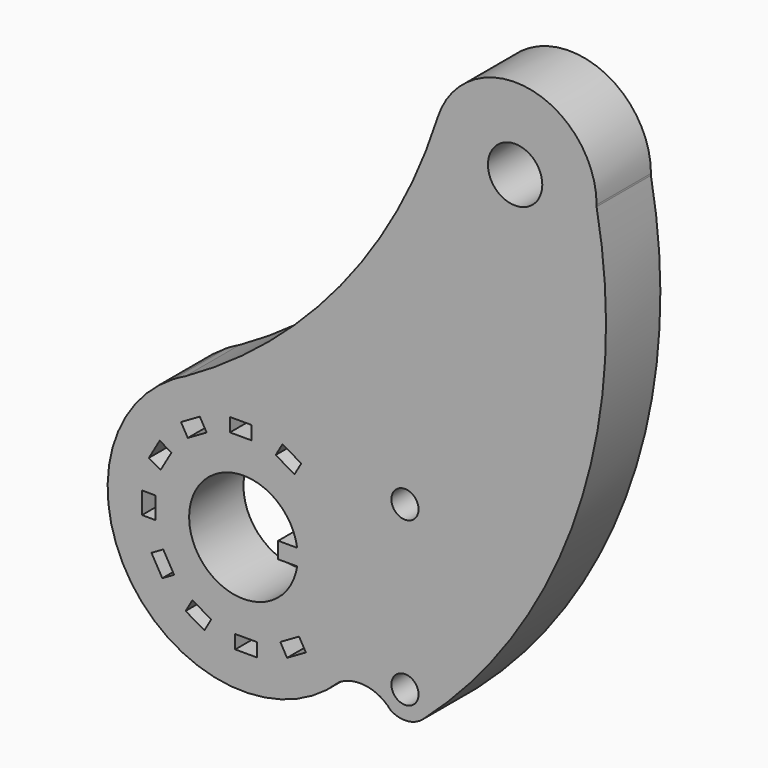
from build123d import *

# Parameters (mm, degrees)
F0_R     = 10
F0_W     = 5
F0_H     = 8
F0_W_2   = 8
F0_H_2   = 5
F0_R_2   = 5
F1_DEPTH = 25


with BuildPart() as f1:
    # F0 (on Front) → F1 (new body)
    with BuildSketch(Plane.XZ):
        with BuildLine():
            ThreePointArc((60.975433, 96.400047), (60.980972, 96.732847), (60.982819, 97.065687))
            ThreePointArc((60.982819, 97.065687), (35.755982, 126.683535), (2.501691, 106.49041))
            ThreePointArc((2.501691, 106.49041), (2.393928, 106.15023), (2.285558, 105.810243))
            ThreePointArc((2.285558, 105.810243), (4.350114, 83.256305), (21.59361, 68.572833))
            ThreePointArc((21.59361, 68.572833), (48.295056, 72.564944), (60.975433, 96.400047))
        make_face()
        with Locations((30.982819, 97.065687)):
            Circle(F0_R, mode=Mode.SUBTRACT)
        with BuildLine():
            ThreePointArc((2.285558, 105.810243), (2.393928, 106.15023), (2.501691, 106.49041))
            ThreePointArc((2.501691, 106.49041), (2.391602, 106.150969), (2.285558, 105.810243))
        make_face()
        with BuildLine():
            ThreePointArc((-2.732649, -90.243404), (53.726427, -5.320256), (60.975433, 96.400047))
            ThreePointArc((60.975433, 96.400047), (48.295056, 72.564944), (21.59361, 68.572833))
            ThreePointArc((21.59361, 68.572833), (4.350114, 83.256305), (2.285558, 105.810243))
            ThreePointArc((2.285558, 105.810243), (-33.312028, 40.206629), (-90.483698, -7.776936))
            ThreePointArc((-90.483698, -7.776936), (-60.597191, -3.648374), (-33.776396, -17.46479))
            ThreePointArc((-33.776396, -17.46479), (-23.661975, -19.395325), (-14.685962, -14.349569))
            ThreePointArc((-14.685962, -14.349569), (-0.249152, -19.279648), (-7.475156, -32.715124))
            ThreePointArc((-7.475156, -32.715124), (-14.965806, -40.251179), (-25.569357, -40.934313))
            ThreePointArc((-25.569357, -40.934313), (-34.054638, -44.449031), (-37.569357, -52.934313))
            ThreePointArc((-37.569357, -52.934313), (-34.054638, -61.419594), (-25.569357, -64.934313))
            ThreePointArc((-25.569357, -64.934313), (-14.965806, -65.617446), (-7.475156, -73.153501))
            ThreePointArc((-7.475156, -73.153501), (0.078463, -80.260328), (-2.732649, -90.243404))
        make_face()
        with BuildLine():
            ThreePointArc((-3.124438, -90.590489), (-2.92843, -90.417074), (-2.732649, -90.243404))
            ThreePointArc((-2.732649, -90.243404), (0.078463, -80.260328), (-7.475156, -73.153501))
            ThreePointArc((-7.475156, -73.153501), (-14.965806, -65.617446), (-25.569357, -64.934313))
            ThreePointArc((-25.569357, -64.934313), (-34.054638, -61.419594), (-37.569357, -52.934313))
            ThreePointArc((-37.569357, -52.934313), (-34.054638, -44.449031), (-25.569357, -40.934313))
            ThreePointArc((-25.569357, -40.934313), (-14.965806, -40.251179), (-7.475156, -32.715124))
            ThreePointArc((-7.475156, -32.715124), (-0.249152, -19.279648), (-14.685962, -14.349569))
            ThreePointArc((-14.685962, -14.349569), (-23.661975, -19.395325), (-33.776396, -17.46479))
            ThreePointArc((-33.776396, -17.46479), (-60.597191, -3.648374), (-90.483698, -7.776936))
            ThreePointArc((-90.483698, -7.776936), (-92.822542, -9.066422), (-95.178396, -10.324562))
            ThreePointArc((-95.178396, -10.324562), (-108.31989, -83.842194), (-33.776396, -88.403835))
            ThreePointArc((-33.776396, -88.403835), (-23.661975, -86.4733), (-14.685962, -91.519056))
            ThreePointArc((-14.685962, -91.519056), (-8.756822, -92.902215), (-3.124438, -90.590489))
        make_face()
        Polygon((-80.882925, -83.436465), (-83.382925, -87.766593), (-90.311128, -83.766593), (-87.811128, -79.436465), align=None, mode=Mode.SUBTRACT)
        Polygon((-94.544293, -73.41708), (-98.87442, -75.91708), (-102.87442, -68.988877), (-98.544293, -66.488877), align=None, mode=Mode.SUBTRACT)
        with Locations((-103.865692, -53.909354)):
            Rectangle(F0_W, F0_H, mode=Mode.SUBTRACT)
        with Locations((-68.04214, -87.782824)):
            Rectangle(F0_W_2, F0_H_2, mode=Mode.SUBTRACT)
        Polygon((-48.534414, -78.461424), (-46.034414, -82.791551), (-52.962617, -86.791551), (-55.462617, -82.461424), align=None, mode=Mode.SUBTRACT)
        with BuildLine():
            ThreePointArc((-49.243461, -55.934313), (-89.017181, -52.934313), (-49.243461, -49.934313))
            Line((-49.243461, -49.934313), (-56.243461, -49.934313))
            Line((-56.243461, -49.934313), (-56.243461, -55.934313))
            Line((-56.243461, -55.934313), (-49.243461, -55.934313))
        make_face(mode=Mode.SUBTRACT)
        Polygon((-99.519334, -41.068569), (-103.849461, -38.568569), (-99.849461, -31.640366), (-95.519334, -34.140366), align=None, mode=Mode.SUBTRACT)
        Polygon((-89.499949, -27.407201), (-91.999949, -23.077074), (-85.071746, -19.077074), (-82.571746, -23.407201), align=None, mode=Mode.SUBTRACT)
        with Locations((-69.992223, -18.085801)):
            Rectangle(F0_W_2, F0_H_2, mode=Mode.SUBTRACT)
        Polygon((-57.151438, -22.43216), (-54.651438, -18.102033), (-47.723235, -22.102033), (-50.223235, -26.43216), align=None, mode=Mode.SUBTRACT)
        with Locations((-9.557397, -82.934313)):
            Circle(F0_R_2, mode=Mode.SUBTRACT)
        with Locations((-9.557397, -22.934313)):
            Circle(F0_R_2, mode=Mode.SUBTRACT)
        with BuildLine():
            ThreePointArc((-3.124438, -90.590489), (-2.926272, -90.41951), (-2.732649, -90.243404))
            ThreePointArc((-2.732649, -90.243404), (-2.92843, -90.417074), (-3.124438, -90.590489))
        make_face()
        with BuildLine():
            ThreePointArc((-95.178396, -10.324562), (-92.822542, -9.066422), (-90.483698, -7.776936))
            ThreePointArc((-90.483698, -7.776936), (-92.865091, -8.988014), (-95.178396, -10.324562))
        make_face()
    extrude(amount=F1_DEPTH)


solid = f1.part
